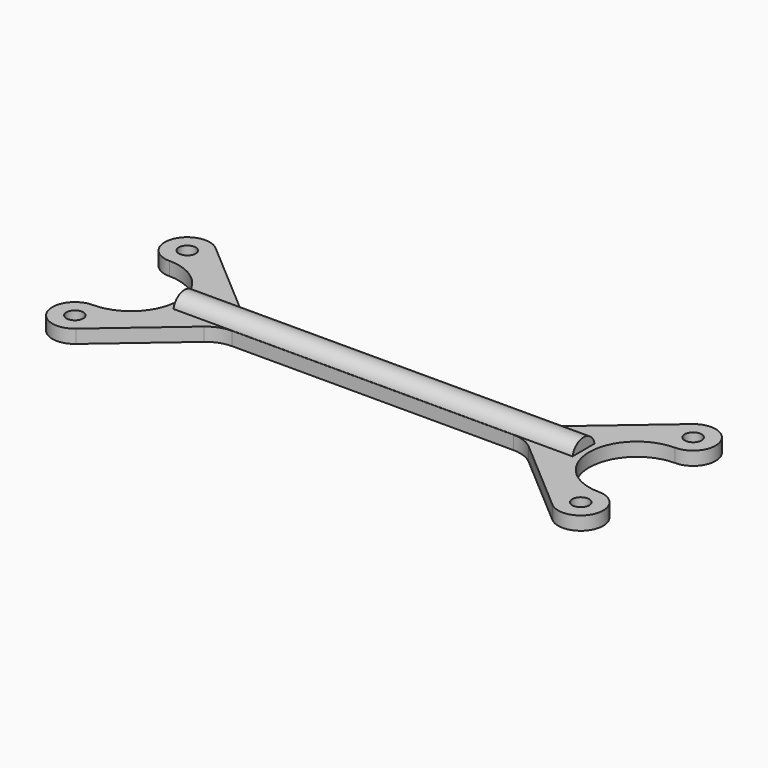
from build123d import *

# Parameters (mm, degrees)
SKETCH003_R  = 1.5
PAD001_DEPTH = 2.4
PAD002_DEPTH = 35.5


with BuildPart() as part:
    # Sketch003 → Pad001 (new body)
    with BuildSketch(Plane.XY):
        with BuildLine():
            ThreePointArc((42.393216, -15.533921), (48.750712, -13.890021), (45, -8.5))
            ThreePointArc((45, 8.5), (36.5, 0), (45, -8.5))
            ThreePointArc((45, 8.5), (48.750712, 13.890021), (42.393216, 15.533921))
            Line((42.393216, 15.533921), (28.910176, 3.949119))
            ThreePointArc((25, 2.5), (27.085031, 2.873932), (28.910176, 3.949119))
            Line((25, 2.5), (-25, 2.5))
            ThreePointArc((-28.910176, 3.949119), (-27.085031, 2.873932), (-25, 2.5))
            Line((-42.393216, 15.533921), (-28.910176, 3.949119))
            ThreePointArc((-42.393216, 15.533921), (-48.750712, 13.890021), (-45, 8.5))
            ThreePointArc((-45, -8.5), (-36.5, 0), (-45, 8.5))
            ThreePointArc((-45, -8.5), (-48.750712, -13.890021), (-42.393216, -15.533921))
            Line((-42.393216, -15.533921), (-28.910176, -3.949119))
            ThreePointArc((-25, -2.5), (-27.085031, -2.873932), (-28.910176, -3.949119))
            Line((-25, -2.5), (25, -2.5))
            ThreePointArc((28.910176, -3.949119), (27.085031, -2.873932), (25, -2.5))
            Line((42.393216, -15.533921), (28.910176, -3.949119))
        make_face()
        with Locations((-45, 12.5)):
            Circle(SKETCH003_R, mode=Mode.SUBTRACT)
        with Locations((-45, -12.5)):
            Circle(SKETCH003_R, mode=Mode.SUBTRACT)
        with Locations((45, 12.5)):
            Circle(SKETCH003_R, mode=Mode.SUBTRACT)
        with Locations((45, -12.5)):
            Circle(SKETCH003_R, mode=Mode.SUBTRACT)
    extrude(amount=PAD001_DEPTH)

    # Sketch004 → Pad002 (join, symmetric)
    with BuildSketch(Plane.YZ):
        with BuildLine():
            ThreePointArc((2.44949, 2.4), (0, 4.4), (-2.44949, 2.4))
            Line((2.44949, 2.4), (-2.44949, 2.4))
        make_face()
    extrude(amount=PAD002_DEPTH, both=True)


solid = part.part
